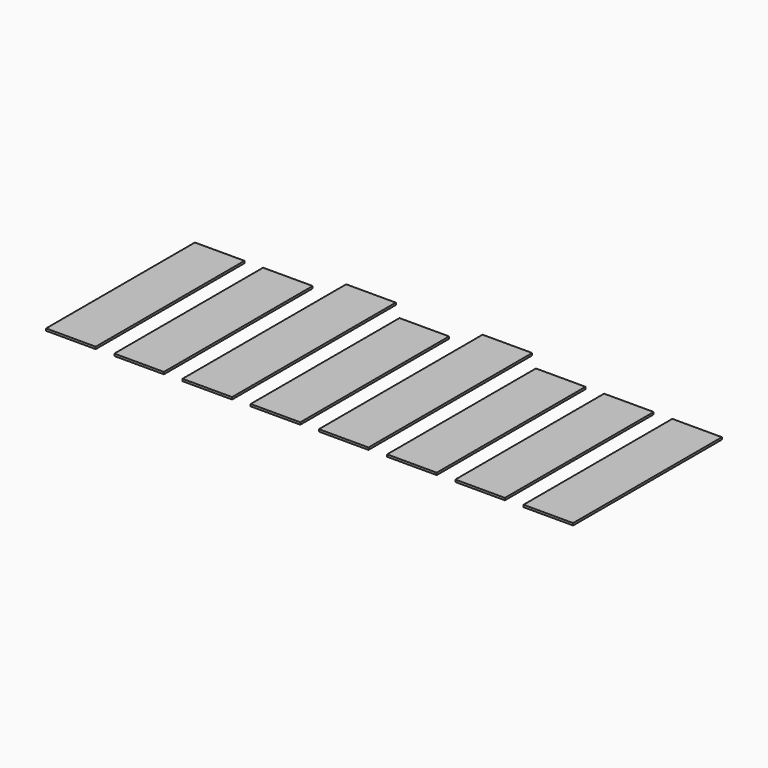
from build123d import *

# Parameters (mm, degrees)
BOX071_W     = 0.8
BOX071_H     = 3
BOX071_DEPTH = 0.035
BOX002_W     = 0.8
BOX002_H     = 3.3
BOX002_DEPTH = 0.035


with BuildPart() as cube044:
    # Box071 → Box071 (new body)
    with BuildSketch(Plane(origin=(2.8, 11, -0.035), x_dir=(1, 0, 0), z_dir=(0, 0, 1))):
        with Locations((0.4, 1.5)):
            Rectangle(BOX071_W, BOX071_H)
    extrude(amount=BOX071_DEPTH)


with BuildPart() as cube054:
    # Link013 base: copy of Cube044
    add(cube044.part)


with BuildPart() as cube054_1:
    # Link013 placement: moved
    add(cube054.part.moved(Location((-1.1, 0, 0))))


with BuildPart() as cube055:
    # Link014 base: copy of Cube044
    add(cube044.part)


with BuildPart() as cube055_1:
    # Link014 placement: moved
    add(cube055.part.moved(Location((-2.2, 0, 0))))


with BuildPart() as cube053:
    # Link012 base: copy of Cube044
    add(cube044.part)


with BuildPart() as cube053_1:
    # Link012 placement: moved
    add(cube053.part.moved(Location((-4.4, 0, 0))))


with BuildPart() as cube050:
    # Link003 base: copy of Cube044
    add(cube044.part)


with BuildPart() as cube050_1:
    # Link003 placement: moved
    add(cube050.part.moved(Location((-6.6, 0, 0))))


with BuildPart() as cube052:
    # Link011 base: copy of Cube044
    add(cube044.part)


with BuildPart() as cube052_1:
    # Link011 placement: moved
    add(cube052.part.moved(Location((-7.7, 0, 0))))


with BuildPart() as cube002:
    # Box002 → Box002 (new body)
    with BuildSketch(Plane(origin=(-0.5, 11, -0.035), x_dir=(1, 0, 0), z_dir=(0, 0, 1))):
        with Locations((0.4, 1.65)):
            Rectangle(BOX002_W, BOX002_H)
    extrude(amount=BOX002_DEPTH)


with BuildPart() as cube051:
    # Link010 base: copy of Cube002
    add(cube002.part)


with BuildPart() as cube051_1:
    # Link010 placement: moved
    add(cube051.part.moved(Location((-2.2, 0, 0))))


with BuildPart() as contacts:
    # Fusion053 base: copy of Cube044
    add(cube044.part)

    # Fusion053: union Cube054, Cube055, Cube053, Cube050, Cube052, Cube002, Cube051
    add(cube054_1.part)
    add(cube055_1.part)
    add(cube053_1.part)
    add(cube050_1.part)
    add(cube052_1.part)
    add(cube002.part)
    add(cube051_1.part)


solid = contacts.part
